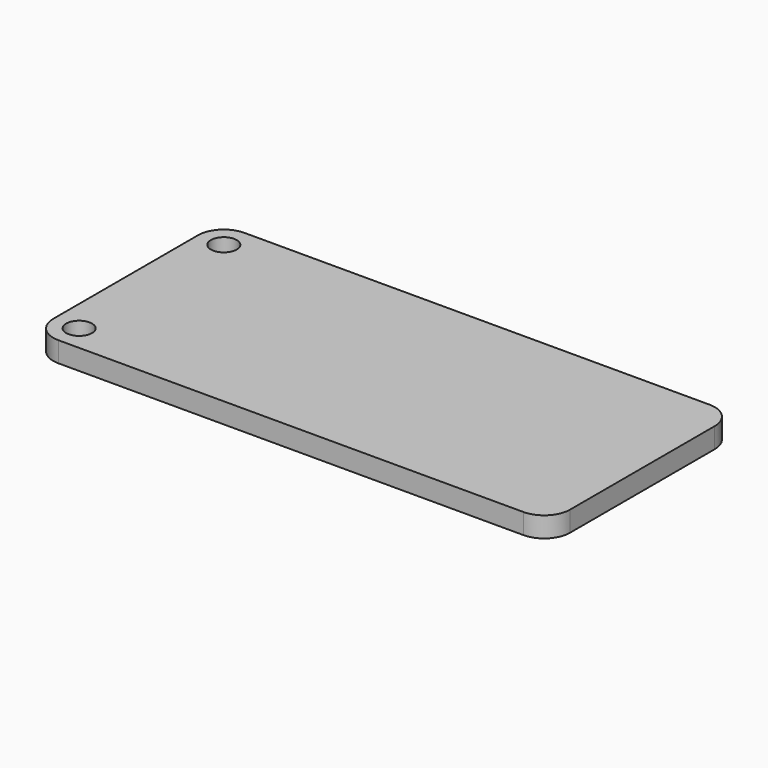
from build123d import *

# Parameters (mm, degrees)
F0_R     = 1.27
F1_DEPTH = 2


with BuildPart() as f1:
    # F0 (on Top) → F1 (new body)
    with BuildSketch(Plane.XY):
        with BuildLine():
            Line((55.716206, -12.605232), (9.996206, -12.605232))
            ThreePointArc((9.996206, -12.605232), (8.200155, -13.349181), (7.456206, -15.145232))
            Line((7.456206, -15.145232), (7.456206, -24.035232))
            Line((7.456206, -24.035232), (58.256206, -24.035232))
            Line((58.256206, -24.035232), (58.256206, -15.145232))
            ThreePointArc((58.256206, -15.145232), (57.512258, -13.349181), (55.716206, -12.605232))
        make_face()
        with Locations((9.996206, -15.145232)):
            Circle(F0_R, mode=Mode.SUBTRACT)
        with BuildLine():
            Line((58.256206, -24.035232), (7.456206, -24.035232))
            Line((7.456206, -24.035232), (7.456206, -32.925232))
            ThreePointArc((7.456206, -32.925232), (8.200155, -34.721283), (9.996206, -35.465232))
            Line((9.996206, -35.465232), (55.716206, -35.465232))
            ThreePointArc((55.716206, -35.465232), (57.512258, -34.721283), (58.256206, -32.925232))
            Line((58.256206, -32.925232), (58.256206, -24.035232))
        make_face()
        with Locations((9.996206, -32.925232)):
            Circle(F0_R, mode=Mode.SUBTRACT)
    extrude(amount=F1_DEPTH)


solid = f1.part
